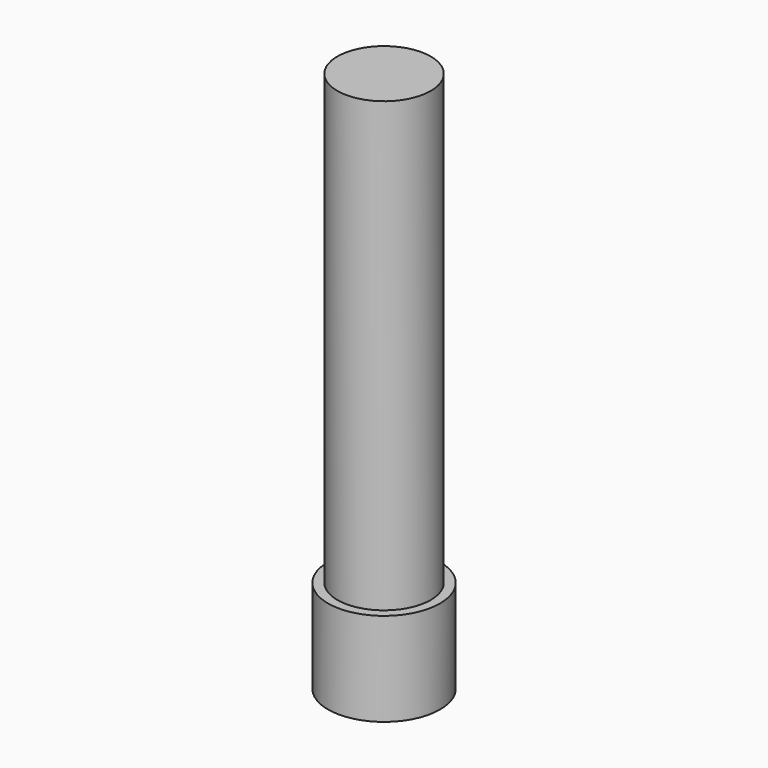
from build123d import *

# Parameters (mm, degrees)
SKETCH_R         = 1.5
EXTRUDE_DEPTH    = 2.5
SKETCH001_R      = 1.25
EXTRUDE001_DEPTH = 12


with BuildPart() as extrude_body:
    # Sketch → Extrude (new body)
    with BuildSketch(Plane.XY):
        Circle(SKETCH_R)
    extrude(amount=-EXTRUDE_DEPTH)


with BuildPart() as extrude001:
    # Sketch001 → Extrude001 (new body)
    with BuildSketch(Plane.XY):
        Circle(SKETCH001_R)
    extrude(amount=EXTRUDE001_DEPTH)


solid = Compound([extrude_body.part, extrude001.part])
